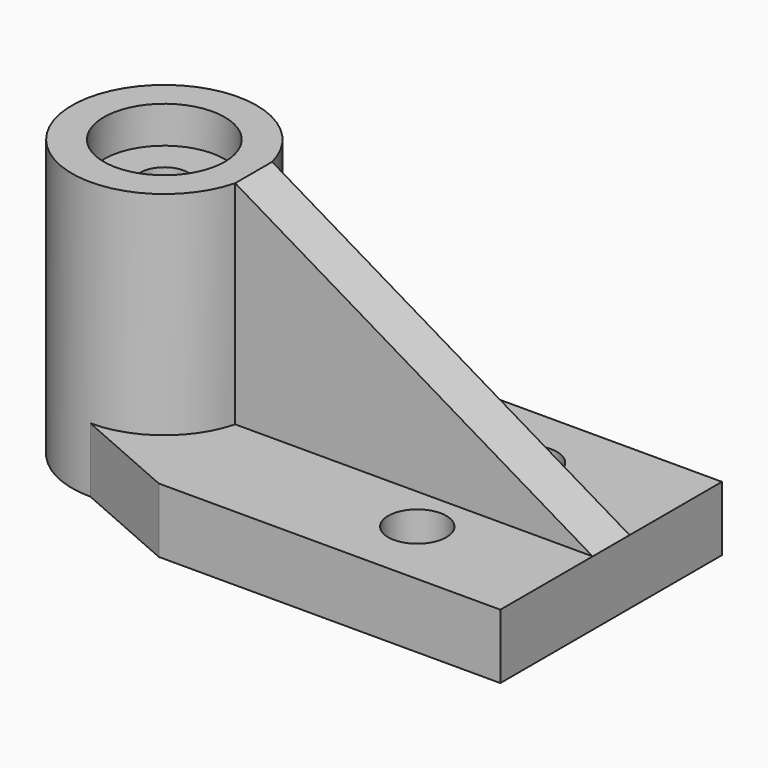
from build123d import *

# Parameters (mm, degrees)
F0_R      = 10
F0_R_2    = 6.55
F1_DEPTH  = 30
F0_R_3    = 2.6
F2_DEPTH  = 26
F3_W      = 7
F3_H      = 30
F3_W_2    = 30
F4_DEPTH  = 7
F5_DEPTH  = 30
F6_W      = 40
F6_H      = 5
F7_DEPTH  = 23
F9_DEPTH  = 25
F10_R     = 3.15
F11_DEPTH = 25
F12_R     = 3.15
F13_DEPTH = 25
F15_DEPTH = 30.001


with BuildPart() as f1:
    # F0 (on Top) → F1 (new body)
    with BuildSketch(Plane.XY):
        Circle(F0_R)
        Circle(F0_R_2, mode=Mode.SUBTRACT)
    extrude(amount=F1_DEPTH)

    # F0 (on Top) → F2 (join)
    with BuildSketch(Plane.XY):
        Circle(F0_R_2)
        Circle(F0_R_3, mode=Mode.SUBTRACT)
    extrude(amount=F2_DEPTH)

    # F3 (on Top) → F4 (join)
    with BuildSketch(Plane.XY):
        with BuildLine():
            Line((11.4, -15), (11.4, 15))
            Line((11.4, 15), (0, 10))
            ThreePointArc((0, 10), (7.071068, 7.071068), (10, 0))
            ThreePointArc((10, 0), (7.071068, -7.071068), (0, -10))
            Line((0, -10), (11.4, -15))
        make_face()
        with Locations((14.9, 0)):
            Rectangle(F3_W, F3_H)
        with Locations((33.4, 0)):
            Rectangle(F3_W_2, F3_H)
    extrude(amount=F4_DEPTH)

    # F3 (on Top) → F5 (join)
    with BuildSketch(Plane.XY):
        with Locations((14.9, 0)):
            Rectangle(F3_W, F3_H)
    extrude(amount=-F5_DEPTH)

    # F6 (on face) → F7 (join, through all)
    with BuildSketch(Plane.XY.offset(7)):
        with Locations((28.4, 0)):
            Rectangle(F6_W, F6_H)
    extrude(amount=F7_DEPTH)

    # F8 (on face) → F9 (cut)
    with BuildSketch(Plane.XZ.offset(2.5)):
        Polygon((48.4, 30), (9.682458, 30), (48.4, 7), align=None)
    extrude(amount=-F9_DEPTH, mode=Mode.SUBTRACT)

    # F10 (on face) → F11 (cut)
    with BuildSketch(Plane.YZ.offset(18.4)):
        with Locations((-7.5, -15)):
            Circle(F10_R)
        with Locations((7.5, -15)):
            Circle(F10_R)
    extrude(amount=-F11_DEPTH, mode=Mode.SUBTRACT)

    # F12 (on face) → F13 (cut)
    with BuildSketch(Plane.XY):
        with Locations((33.4, -7.5)):
            Circle(F12_R)
        with Locations((33.4, 7.5)):
            Circle(F12_R)
    extrude(amount=F13_DEPTH, mode=Mode.SUBTRACT)

    # F14 (on face) → F15 (cut, through all)
    with BuildSketch(Plane.XZ.offset(15)):
        Polygon((51.2021, -41.370519), (48.4, 0), (-16.937578, 0), (-15.380099, -41.370519), align=None)
    extrude(amount=-F15_DEPTH, mode=Mode.SUBTRACT)


solid = f1.part
